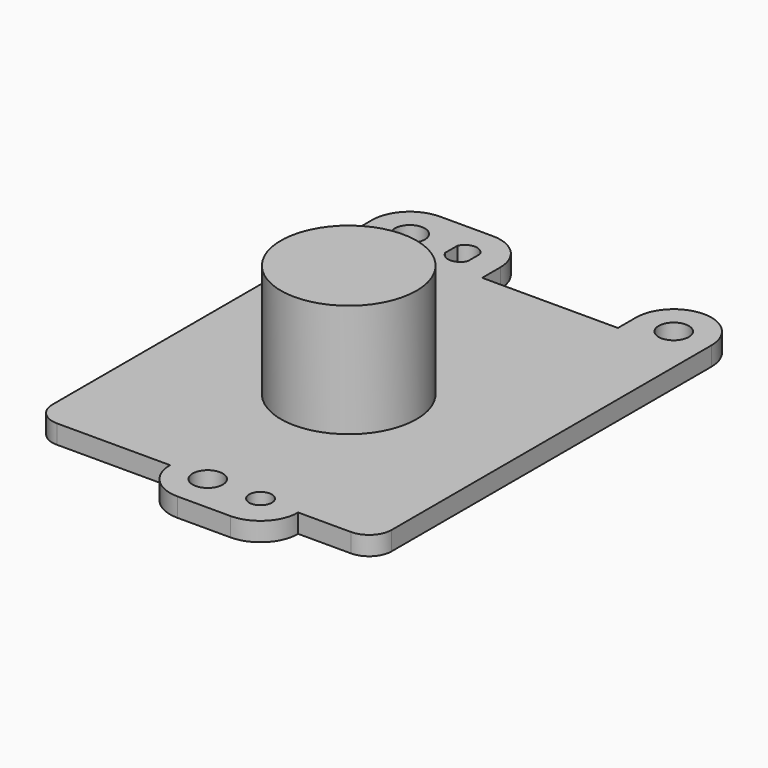
from build123d import *

# Parameters (mm, degrees)
F0_R     = 2
F0_R_2   = 1.5
F1_DEPTH = 2.5
F2_R     = 9
F3_DEPTH = 15


with BuildPart() as f1:
    # F0 (on Top) → F1 (new body)
    with BuildSketch(Plane.XY):
        with BuildLine():
            ThreePointArc((19.5, -28), (21.62132, -27.12132), (22.5, -25))
            Line((22.5, -25), (22.5, 25))
            Line((22.5, 25), (22.5, 28))
            ThreePointArc((22.5, 28), (17.5, 33), (12.5, 28))
            Line((12.5, 28), (12.5, 25))
            Line((12.5, 25), (-5.5, 25))
            Line((-5.5, 25), (-5.5, 28))
            ThreePointArc((-5.5, 28), (-6.964466, 31.535534), (-10.5, 33))
            Line((-10.5, 33), (-17.5, 33))
            ThreePointArc((-17.5, 33), (-21.035534, 31.535534), (-22.5, 28))
            Line((-22.5, 28), (-22.5, 25))
            Line((-22.5, 25), (-22.5, -25))
            ThreePointArc((-22.5, -25), (-21.62132, -27.12132), (-19.5, -28))
            Line((-19.5, -28), (-4.5, -28))
            ThreePointArc((-4.5, -28), (-3.035534, -31.535534), (0.5, -33))
            Line((0.5, -33), (7.5, -33))
            ThreePointArc((7.5, -33), (11.035534, -31.535534), (12.5, -28))
            Line((12.5, -28), (19.5, -28))
        make_face()
        with Locations((0.5, -28)):
            Circle(F0_R, mode=Mode.SUBTRACT)
        with Locations((7.5, -28)):
            Circle(F0_R_2, mode=Mode.SUBTRACT)
        with Locations((-17.5, 28)):
            Circle(F0_R, mode=Mode.SUBTRACT)
        with BuildLine():
            Line((-12, 27), (-12, 29))
            ThreePointArc((-12, 29), (-10.5, 30), (-9, 29))
            Line((-9, 29), (-9, 27))
            ThreePointArc((-9, 27), (-10.5, 26), (-12, 27))
        make_face(mode=Mode.SUBTRACT)
        with Locations((17.5, 28)):
            Circle(F0_R, mode=Mode.SUBTRACT)
    extrude(amount=F1_DEPTH)

    # F2 (on face) → F3 (join)
    with BuildSketch(Plane.XY.offset(2.5)):
        with Locations((0, -4)):
            Circle(F2_R)
    extrude(amount=F3_DEPTH)


solid = f1.part
